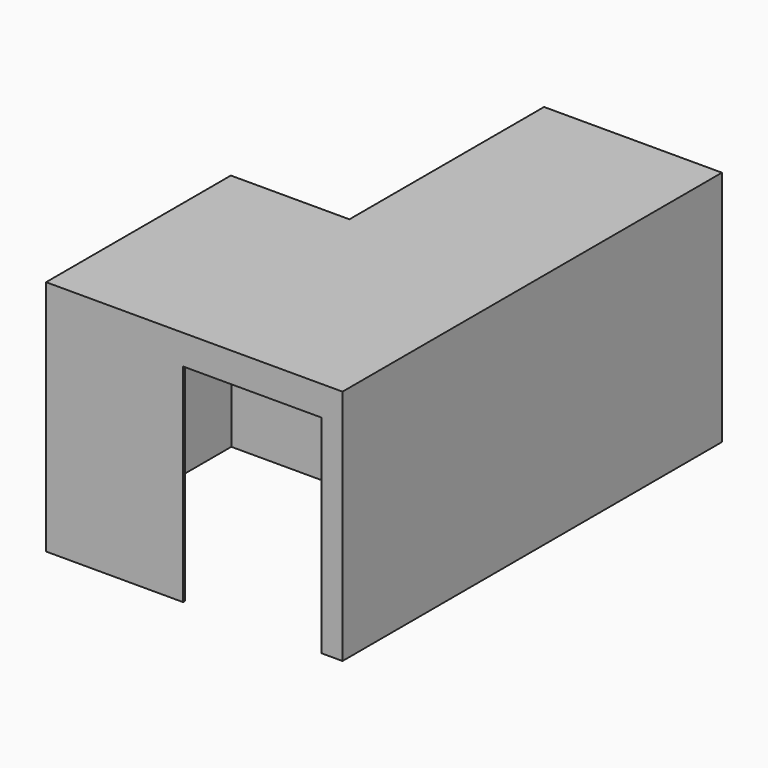
from build123d import *

# Parameters (mm, degrees)
F1_DEPTH = 1219.2
F2_T     = -11.90625
F3_W     = 711.2
F3_H     = 1066.8
F4_DEPTH = 25.4


with BuildPart() as f1:
    # F0 (on Top) → F1 (new body)
    with BuildSketch(Plane.XY):
        Polygon((4962.533984375, -1219.2), (6486.533984375, -1219.2), (6486.533984375, 1219.2), (5572.133984375, 1219.2), (5572.133984375, -31.75), (4962.533984375, -31.75), align=None)
    extrude(amount=F1_DEPTH)

    # F2
    f2_openings = [f1.faces().sort_by_distance(p)[0] for p in [
        (5842.57907, -153.294659, 0),
    ]]
    offset(amount=F2_T, openings=f2_openings, kind=Kind.INTERSECTION)

    # F3 (on face) → F4 (cut)
    with BuildSketch(Plane.XZ.offset(1219.2)):
        with Locations((6022.5034957886, 533.4)):
            Rectangle(F3_W, F3_H)
    extrude(amount=-F4_DEPTH, mode=Mode.SUBTRACT)


solid = f1.part
